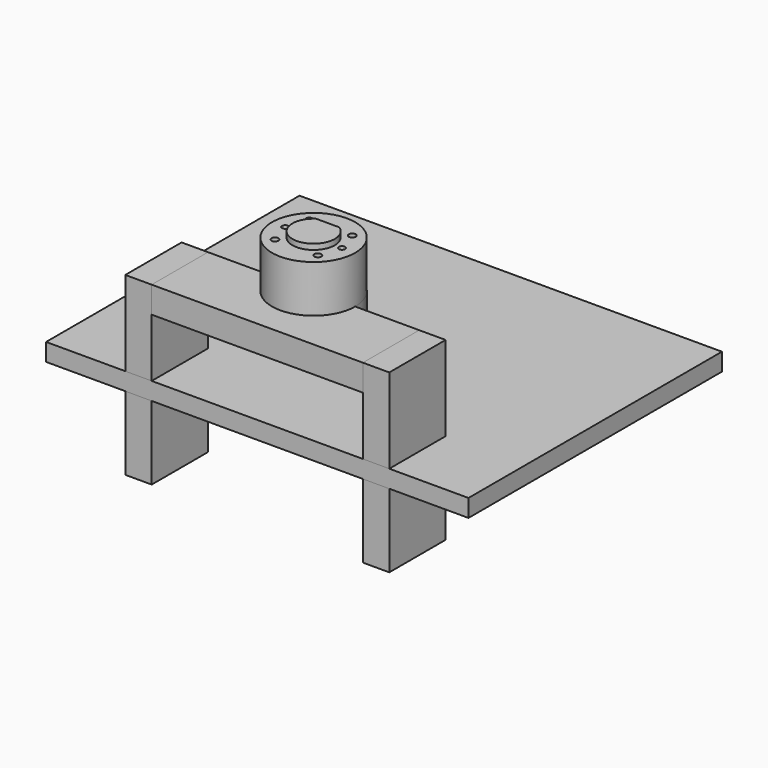
from build123d import *

# Parameters (mm, degrees)
F0_R      = 30
F1_DEPTH  = 34.1
F3_DEPTH  = 4
F4_R      = 2.5
F4_R_2    = 2.25
F5_DEPTH  = 25
F7_DEPTH  = 19.05
F8_W      = 50.8
F8_H      = 127
F9_DEPTH  = 19.05
F10_W     = 50.8
F10_H     = 127
F11_DEPTH = 19.05
F13_W     = 304.8
F13_H     = 228.6
F14_DEPTH = 12.7


with BuildPart() as f1:
    # F0 (on Top) → F1 (new body)
    with BuildSketch(Plane.XY):
        Circle(F0_R)
    extrude(amount=-F1_DEPTH)

    # F2 (on face) → F3 (join)
    with BuildSketch(Plane.XY):
        with BuildLine():
            Line((8.3666002653, 12.75), (-8.3666002653, 12.75))
            ThreePointArc((-8.3666002653, 12.75), (0, -15.25), (8.3666002653, 12.75))
        make_face()
    extrude(amount=F3_DEPTH)

    # F4 (on face) → F5 (cut)
    with BuildSketch(Plane.XY):
        with Locations((15.5, 15.5)):
            Circle(F4_R)
        with Locations((-15.5, 15.5)):
            Circle(F4_R)
        with Locations((-15.5, -15.5)):
            Circle(F4_R)
        with Locations((15.5, -15.5)):
            Circle(F4_R)
        with Locations((-20.5, 0)):
            Circle(F4_R_2)
        with Locations((20.5, 0)):
            Circle(F4_R_2)
    extrude(amount=-F5_DEPTH, mode=Mode.SUBTRACT)


with BuildPart() as f7:
    # F6 (on face) → F7 (new body)
    with BuildSketch(Plane(origin=(0, 0, -34.1), x_dir=(1, 0, 0), z_dir=(0, 0, -1))):
        with BuildLine():
            ThreePointArc((-30, 0), (0, 30), (30, 0))
            Line((30, 0), (76.2, 0))
            Line((76.2, 0), (76.2, 50.8))
            Line((76.2, 50.8), (-76.2, 50.8))
            Line((-76.2, 50.8), (-76.2, 0))
            Line((-76.2, 0), (-30, 0))
        make_face()
        with BuildLine():
            ThreePointArc((-30, 0), (0, -30), (30, 0))
            Line((30, 0), (-30, 0))
        make_face()
        with BuildLine():
            Line((-30, 0), (30, 0))
            ThreePointArc((30, 0), (0, 30), (-30, 0))
        make_face()
    extrude(amount=F7_DEPTH)


with BuildPart() as f9:
    # F8 (on face) → F9 (new body)
    with BuildSketch(Plane.YZ.offset(76.2)):
        with Locations((-25.4, -97.6)):
            Rectangle(F8_W, F8_H)
    extrude(amount=F9_DEPTH)


with BuildPart() as f11:
    # F10 (on face) → F11 (new body)
    with BuildSketch(Plane(origin=(-76.2, 0, 0), x_dir=(0, -1, 0), z_dir=(-1, 0, 0))):
        with Locations((25.4, -97.6)):
            Rectangle(F10_W, F10_H)
    extrude(amount=F11_DEPTH)


with BuildPart() as f14:
    # F13 (on offset) → F14 (new body)
    with BuildSketch(Plane.XY.offset(-95.25)):
        with Locations((0, 63.5)):
            Rectangle(F13_W, F13_H)
    extrude(amount=-F14_DEPTH)


solid = Compound([f1.part, f7.part, f9.part, f11.part, f14.part])
